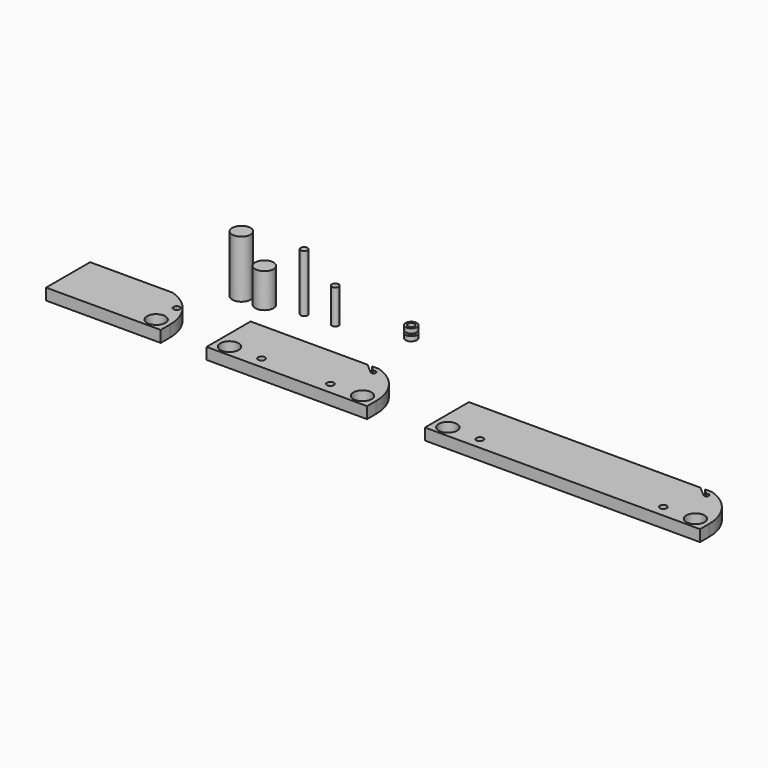
from build123d import *

# Parameters (mm, degrees)
F0_R       = 2
F1_DEPTH   = 2.5
F2_D       = 4
F2_DEPTH   = 16
F2_TIP     = 1.2017212381
F2_2_D     = 4
F2_2_DEPTH = 16
F2_2_TIP   = 1.2017212381
F2_3_D     = 4
F2_3_DEPTH = 16
F2_3_TIP   = 1.2017212381
F3_DEPTH   = 12.5
F4_R       = 0.75
F5_DEPTH   = 12.5
F6_DEPTH   = 7.5
F7_DEPTH   = 7.5
F8_R       = 1.25
F8_R_2     = 0.75
F9_DEPTH   = 1.25
F10_SIZE   = 0.25


with BuildPart() as f1:
    # F0 (on Top) → F1 (new body)
    with BuildSketch(Plane.XY):
        with BuildLine():
            Line((-70, 0), (-45, 0))
            Line((-45, 0), (-45, 2.5))
            ThreePointArc((-45, 2.5), (-45.7601235959, 6.2849945688), (-47.8973441844, 9.5))
            Line((-47.8973441844, 9.5), (-49.4358401153, 9.5))
            Line((-49.4358401153, 9.5), (-48.3971836964, 8.4873326298))
            ThreePointArc((-48.3971836964, 8.4873326298), (-47.6342865886, 8.6466322998), (-47.1992520488, 8))
            ThreePointArc((-47.1992520488, 8), (-47.6261159102, 7.356752106), (-48.3846768143, 7.500160488))
            Line((-48.3846768143, 7.500160488), (-50.4358401153, 9.5))
            Line((-50.4358401153, 9.5), (-70, 9.5))
            Line((-70, 9.5), (-70, 0))
        make_face()
        with Locations((-48, 2.5)):
            Circle(F0_R, mode=Mode.SUBTRACT)
        with BuildLine():
            Line((-70, 0), (-45, 0))
            Line((-45, 0), (-45, 2.5))
            ThreePointArc((-45, 2.5), (-45.7601235959, 6.2849945688), (-47.8973441844, 9.5))
            Line((-47.8973441844, 9.5), (-49.4358401153, 9.5))
            Line((-49.4358401153, 9.5), (-48.3971836964, 8.4873326298))
            ThreePointArc((-48.3971836964, 8.4873326298), (-47.6342865886, 8.6466322998), (-47.1992520488, 8))
            ThreePointArc((-47.1992520488, 8), (-47.6261159102, 7.356752106), (-48.3846768143, 7.500160488))
            Line((-48.3846768143, 7.500160488), (-50.4358401153, 9.5))
            Line((-50.4358401153, 9.5), (-70, 9.5))
            Line((-70, 9.5), (-70, 0))
        make_face()
        with Locations((-48, 2.5)):
            Circle(F0_R, mode=Mode.SUBTRACT)
        Polygon((-70, 12), (-70, 9.5), (-50.4358401153, 9.5), (-53, 12), align=None)
        with Locations((-48, 2.5)):
            Circle(F0_R)
        with BuildLine():
            Line((-49.4358401153, 9.5), (-47.8973441844, 9.5))
            ThreePointArc((-47.8973441844, 9.5), (-49.7963054178, 11.0000432091), (-52, 12))
            Line((-52, 12), (-49.4358401153, 9.5))
        make_face()
        Polygon((-53, 12), (-50.4358401153, 9.5), (-49.4358401153, 9.5), (-52, 12), align=None)
        with BuildLine():
            Line((-49.4358401153, 9.5), (-50.4358401153, 9.5))
            Line((-50.4358401153, 9.5), (-48.3846768143, 7.500160488))
            ThreePointArc((-48.3846768143, 7.500160488), (-48.5953803001, 7.9911562988), (-48.3971836964, 8.4873326298))
            Line((-48.3971836964, 8.4873326298), (-49.4358401153, 9.5))
        make_face()
    extrude(amount=F1_DEPTH)

    # F2
    with Locations(Plane(origin=(0, 0, 0), x_dir=(1, 0, 0), z_dir=(0, 0, -1))):
        with Locations((-3, -2.5), (69.612413615, -2.5), (-48, -2.5), (-32, -2.5), (15.612413615, -2.5)):
            Hole(F2_D / 2, depth=F2_DEPTH)
            with Locations((0, 0, -(F2_DEPTH + F2_TIP / 2))):  # 118° drill point
                Cone(0, F2_D / 2, F2_TIP, mode=Mode.SUBTRACT)


with BuildPart() as f1b:
    # F0 (on Top) → F1, piece 2 (new body)
    with BuildSketch(Plane.XY):
        with BuildLine():
            Line((12.612413615, 12), (12.612413615, 9.5))
            Line((12.612413615, 9.5), (69.7150694305, 9.5))
            ThreePointArc((69.7150694305, 9.5), (67.8161081972, 11.0000432091), (65.612413615, 12))
            Line((65.612413615, 12), (64.112413615, 12))
            Line((64.112413615, 12), (65.2588602244, 10.8535533906))
            ThreePointArc((65.2588602244, 10.8535533906), (66.1120839739, 10.5181530279), (65.2854476159, 10.1217233348))
            Line((65.2854476159, 10.1217233348), (63.112413615, 12))
            Line((63.112413615, 12), (12.612413615, 12))
        make_face()
        with BuildLine():
            Line((12.612413615, 2.5), (12.612413615, 0))
            Line((12.612413615, 0), (22.612413615, 0))
            Line((22.612413615, 0), (62.612413615, 0))
            Line((62.612413615, 0), (70, 0))
            Line((70, 0), (72.612413615, 0))
            Line((72.612413615, 0), (72.612413615, 2.5))
            ThreePointArc((72.612413615, 2.5), (71.8522900191, 6.2849945688), (69.7150694305, 9.5))
            Line((69.7150694305, 9.5), (12.612413615, 9.5))
            Line((12.612413615, 9.5), (12.612413615, 2.5))
        make_face()
        with BuildLine():
            ThreePointArc((17.612413615, 2.5), (15.612413615, 0.5), (13.612413615, 2.5))
            ThreePointArc((13.612413615, 2.5), (15.612413615, 4.5), (17.612413615, 2.5))
        make_face(mode=Mode.SUBTRACT)
        with BuildLine():
            ThreePointArc((23.362413615, 2.5), (23.1427437009, 1.9696699141), (22.612413615, 1.75))
            ThreePointArc((22.612413615, 1.75), (22.0820835291, 3.0303300859), (23.362413615, 2.5))
        make_face(mode=Mode.SUBTRACT)
        with BuildLine():
            ThreePointArc((63.362413615, 2.5), (63.1427437009, 1.9696699141), (62.612413615, 1.75))
            ThreePointArc((62.612413615, 1.75), (62.0820835291, 3.0303300859), (63.362413615, 2.5))
        make_face(mode=Mode.SUBTRACT)
        with Locations((69.612413615, 2.5)):
            Circle(F0_R, mode=Mode.SUBTRACT)
        with Locations((69.612413615, 2.5)):
            Circle(F0_R)
        with BuildLine():
            ThreePointArc((17.612413615, 2.5), (15.612413615, 4.5), (13.612413615, 2.5))
            ThreePointArc((13.612413615, 2.5), (15.612413615, 0.5), (17.612413615, 2.5))
        make_face()
    extrude(amount=F1_DEPTH)

    # F2#2
    with Locations(Plane(origin=(0, 0, 0), x_dir=(1, 0, 0), z_dir=(0, 0, -1))):
        with Locations((-3, -2.5), (69.612413615, -2.5), (-48, -2.5), (-32, -2.5), (15.612413615, -2.5)):
            Hole(F2_2_D / 2, depth=F2_2_DEPTH)
            with Locations((0, 0, -(F2_2_DEPTH + F2_2_TIP / 2))):  # 118° drill point
                Cone(0, F2_2_D / 2, F2_2_TIP, mode=Mode.SUBTRACT)


with BuildPart() as f1c:
    # F0 (on Top) → F1, piece 3 (new body)
    with BuildSketch(Plane.XY):
        with BuildLine():
            Line((-35, 9.5), (-2.8973441844, 9.5))
            ThreePointArc((-2.8973441844, 9.5), (-4.7963054178, 11.0000432091), (-7, 12))
            Line((-7, 12), (-7, 11))
            ThreePointArc((-7, 11), (-6.5314179194, 10.325555643), (-7.3269659991, 10.1217233348))
            Line((-7.3269659991, 10.1217233348), (-9.5, 12))
            Line((-9.5, 12), (-35, 12))
            Line((-35, 12), (-35, 9.5))
        make_face()
        with BuildLine():
            Line((-10, 0), (0, 0))
            Line((0, 0), (0, 2.5))
            ThreePointArc((0, 2.5), (-0.7601235959, 6.2849945688), (-2.8973441844, 9.5))
            Line((-2.8973441844, 9.5), (-35, 9.5))
            Line((-35, 9.5), (-35, 2.5))
            Line((-35, 2.5), (-35, 0))
            Line((-35, 0), (-25, 0))
            Line((-25, 0), (-10, 0))
        make_face()
        with BuildLine():
            ThreePointArc((-30, 2.5), (-32, 0.5), (-34, 2.5))
            ThreePointArc((-34, 2.5), (-32, 4.5), (-30, 2.5))
        make_face(mode=Mode.SUBTRACT)
        with BuildLine():
            ThreePointArc((-24.25, 2.5), (-24.4696699141, 1.9696699141), (-25, 1.75))
            ThreePointArc((-25, 1.75), (-25.5303300859, 3.0303300859), (-24.25, 2.5))
        make_face(mode=Mode.SUBTRACT)
        with BuildLine():
            ThreePointArc((-9.25, 2.5), (-9.4696699141, 1.9696699141), (-10, 1.75))
            ThreePointArc((-10, 1.75), (-10.5303300859, 3.0303300859), (-9.25, 2.5))
        make_face(mode=Mode.SUBTRACT)
        with Locations((-3, 2.5)):
            Circle(F0_R, mode=Mode.SUBTRACT)
        with Locations((-3, 2.5)):
            Circle(F0_R)
        with BuildLine():
            ThreePointArc((-30, 2.5), (-32, 4.5), (-34, 2.5))
            ThreePointArc((-34, 2.5), (-32, 0.5), (-30, 2.5))
        make_face()
        with BuildLine():
            Line((-7, 11), (-7, 12))
            Line((-7, 12), (-8.5, 12))
            Line((-8.5, 12), (-7.3535533906, 10.8535533906))
            ThreePointArc((-7.3535533906, 10.8535533906), (-7.1913417162, 10.9619397663), (-7, 11))
        make_face()
    extrude(amount=F1_DEPTH)

    # F2#3
    with Locations(Plane(origin=(0, 0, 0), x_dir=(1, 0, 0), z_dir=(0, 0, -1))):
        with Locations((-3, -2.5), (69.612413615, -2.5), (-48, -2.5), (-32, -2.5), (15.612413615, -2.5)):
            Hole(F2_3_D / 2, depth=F2_3_DEPTH)
            with Locations((0, 0, -(F2_3_DEPTH + F2_3_TIP / 2))):  # 118° drill point
                Cone(0, F2_3_D / 2, F2_3_TIP, mode=Mode.SUBTRACT)


with BuildPart() as f3:
    # F0 (on Top) → F3 (new body)
    with BuildSketch(Plane.XY):
        with Locations((-45, 22)):
            Circle(F0_R)
    extrude(amount=F3_DEPTH)


with BuildPart() as f5:
    # F4 (on Top) → F5 (new body)
    with BuildSketch(Plane.XY):
        with Locations((-32.5610116124, 23.5495194793)):
            Circle(F4_R)
    extrude(amount=F5_DEPTH)


with BuildPart() as f6:
    # F4 (on Top) → F6 (new body)
    with BuildSketch(Plane.XY):
        with Locations((-26.0173063725, 23.8713417202)):
            Circle(F4_R)
    extrude(amount=F6_DEPTH)


with BuildPart() as f7:
    # F0 (on Top) → F7 (new body)
    with BuildSketch(Plane.XY):
        with Locations((-40, 22)):
            Circle(F0_R)
    extrude(amount=F7_DEPTH)


with BuildPart() as f9:
    # F8 (on Top) → F9 (new body)
    with BuildSketch(Plane.XY):
        with Locations((-12.8092793748, 28.0541237444)):
            Circle(F8_R)
        with Locations((-12.8092793748, 28.0541237444)):
            Circle(F8_R_2, mode=Mode.SUBTRACT)
    extrude(amount=F9_DEPTH)

    # F10
    f10_edges = [f9.edges().sort_by_distance(p)[0] for p in [
        (-14.059279, 28.054124, 1.25),
    ]]
    chamfer(f10_edges, length=F10_SIZE)

    # F11: F9 across face


with BuildPart() as f9_1:
    add(f9.part)
    add(f9.part.mirror(Plane(origin=(-12.8092793748, 28.0541237444, 1.25), x_dir=(1, 0, 0), z_dir=(0, 0, 1))))


solid = Compound([f1.part, f1b.part, f1c.part, f3.part, f5.part, f6.part, f7.part, f9_1.part])
